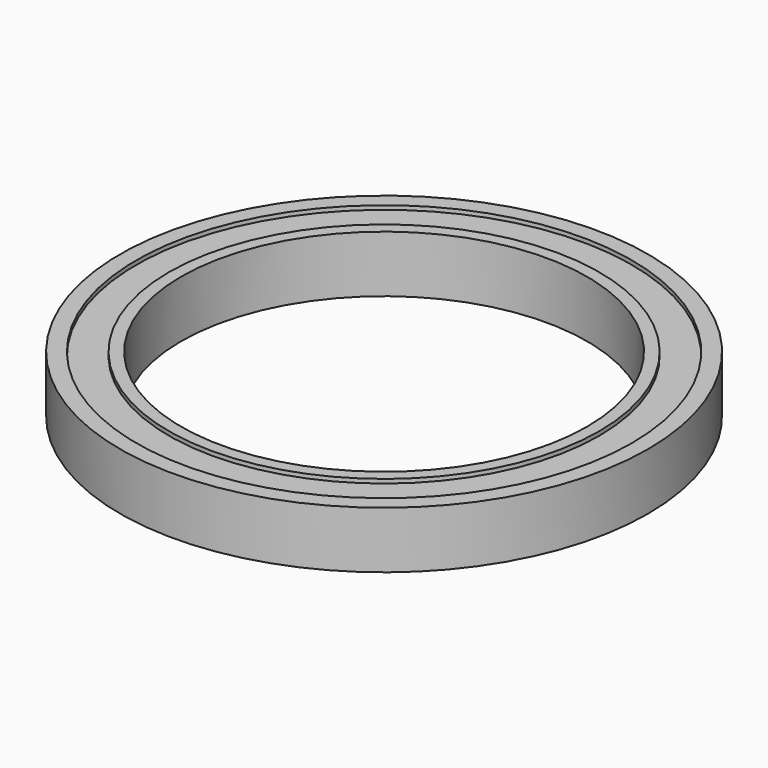
from build123d import *

# Parameters (mm, degrees)
SKETCH010_R     = 32.5
SKETCH010_R_2   = 25
PAD007_DEPTH    = 7
SKETCH011_R     = 30.5
SKETCH011_R_2   = 26.5
POCKET004_DEPTH = 0.5
SKETCH012_R     = 31
SKETCH012_R_2   = 26.5
POCKET005_DEPTH = 0.5


with BuildPart() as part:
    # Sketch010 → Pad007 (new body)
    with BuildSketch(Plane.XY):
        Circle(SKETCH010_R)
        Circle(SKETCH010_R_2, mode=Mode.SUBTRACT)
    extrude(amount=PAD007_DEPTH)

    # Sketch011 → Pocket004 (cut)
    with BuildSketch(Plane.XY.offset(7)):
        Circle(SKETCH011_R)
        Circle(SKETCH011_R_2, mode=Mode.SUBTRACT)
    extrude(amount=-POCKET004_DEPTH, mode=Mode.SUBTRACT)

    # Sketch012 → Pocket005 (cut)
    with BuildSketch(Plane.XY):
        Circle(SKETCH012_R)
        Circle(SKETCH012_R_2, mode=Mode.SUBTRACT)
    extrude(amount=POCKET005_DEPTH, mode=Mode.SUBTRACT)


solid = part.part
